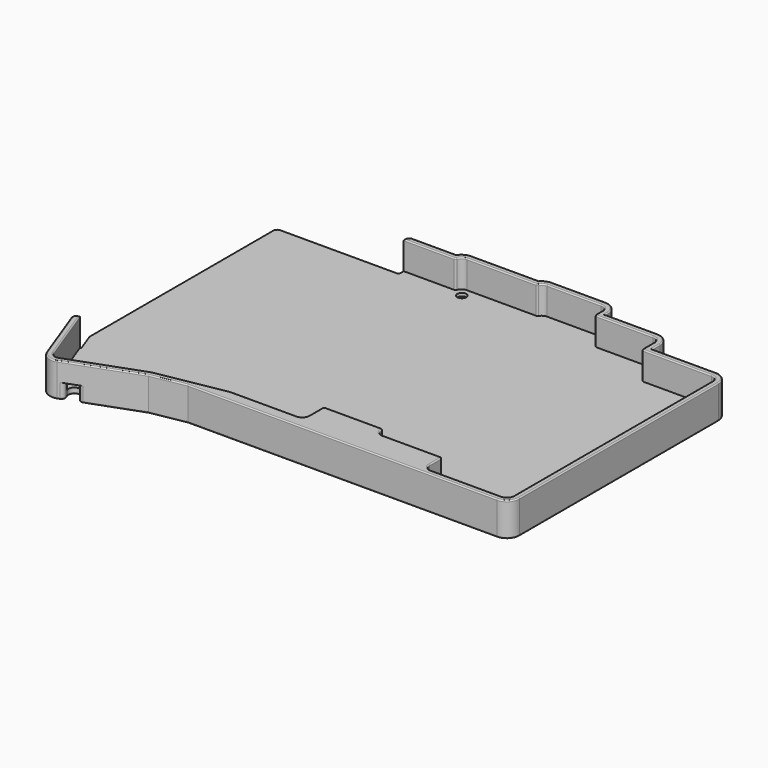
from build123d import *

# Parameters (mm, degrees)
PAD010_DEPTH         = 7.3
PAD010_DEPTH_BACK    = 1.5
POCKET008_DEPTH      = 10
SKETCH024_W          = 7.516364
SKETCH024_H          = 7.12941
POCKET009_DEPTH      = 10
POCKET009_DEPTH_BACK = 10
SKETCH025_R          = 1.2
SKETCH025_R_2        = 1.1
POCKET010_DEPTH      = 20
FILLET_R             = 1
FILLET002_R          = 0.499
SKETCH027_R          = 2.5
POCKET012_DEPTH      = 5
POCKET019_DEPTH      = 5
POCKET019_DEPTH_BACK = 2.4
FILLET009_R          = 1
FILLET003_R          = 0.299


with BuildPart() as part:
    # Sketch021 → Pad010 (new body, two sides)
    with BuildSketch(Plane.XY.offset(-5.1)) as pad010_sk:
        with BuildLine():
            Line((78.000001, -76.1), (15.615872, -76.1))
            Line((6.65976, -77.728932), (15.615872, -76.1))
            Line((-11.88183, -84.480745), (6.65976, -77.728932))
            ThreePointArc((-16.10595, -82.524941), (-14.397471, -84.374493), (-11.88183, -84.480745))
            Line((-21.988183, -66.62453), (-16.10595, -82.524941))
            Line((-20.3, -66), (-21.988183, -66.62453))
            Line((-22.1, -61.054541), (-20.3, -66))
            Line((-22.1, 0), (-22.1, -61.054541))
            Line((8.1, 0), (-22.1, 0))
            Line((8.1, 3.1), (8.1, 0))
            Line((22.434137, 3.1), (8.1, 3.1))
            ThreePointArc((25.199999, 4.6), (23.626787, 4.200862), (22.434137, 3.1))
            Line((42.840325, 4.6), (25.199999, 4.6))
            ThreePointArc((45.3, 5.7), (43.952781, 5.412474), (42.840325, 4.6))
            Line((59.400001, 5.7), (45.3, 5.7))
            ThreePointArc((62.7, 2.400001), (61.733452, 4.733452), (59.400001, 5.7))
            Line((62.7, 1.4), (62.7, 2.400001))
            Line((76.400001, 1.4), (62.7, 1.4))
            ThreePointArc((79.7, -1.899999), (78.733452, 0.433452), (76.400001, 1.4))
            Line((79.7, -4.5), (79.7, -1.899999))
            Line((96.400001, -4.5), (79.7, -4.5))
            ThreePointArc((99.7, -7.799999), (98.733452, -5.466548), (96.400001, -4.5))
            Line((99.7, -59.8), (99.7, -7.799999))
            Line((99.7, -72.800001), (99.7, -59.8))
            ThreePointArc((96.400001, -76.1), (98.733452, -75.133452), (99.7, -72.800001))
            Line((78.000001, -76.1), (96.400001, -76.1))
        make_face()
    extrude(amount=PAD010_DEPTH)
    extrude(pad010_sk.sketch, amount=-PAD010_DEPTH_BACK)

    # Sketch023 → Pocket008 (cut)
    with BuildSketch(Plane.XY.offset(-5.1)):
        with BuildLine():
            Line((-22.1, 0.3), (5, 0.3))
            Line((9.6, 0.3), (5, 0.3))
            Line((9.6, 1.3), (9.6, 0.3))
            ThreePointArc((9.9, 1.6), (9.687868, 1.512132), (9.6, 1.3))
            Line((23.425176, 1.6), (9.9, 1.6))
            ThreePointArc((25.2, 3.1), (24.038105, 2.674773), (23.425176, 1.6))
            Line((43.641688, 3.1), (25.2, 3.1))
            ThreePointArc((45.3, 4.2), (44.305013, 3.9), (43.641688, 3.1))
            Line((59.4, 4.2), (45.3, 4.2))
            ThreePointArc((61.2, 2.4), (60.672792, 3.672792), (59.4, 4.2))
            Line((61.2, -0.1), (61.2, 2.4))
            Line((76.4, -0.1), (61.2, -0.1))
            ThreePointArc((78.2, -1.9), (77.672792, -0.627208), (76.4, -0.1))
            Line((78.2, -6), (78.2, -1.9))
            Line((96.4, -6), (78.2, -6))
            ThreePointArc((98.2, -7.8), (97.672792, -6.527208), (96.4, -6))
            Line((98.2, -59.8), (98.2, -7.8))
            Line((98.2, -72.8), (98.2, -59.8))
            ThreePointArc((96.4, -74.6), (97.672792, -74.072792), (98.2, -72.8))
            Line((78, -74.6), (96.4, -74.6))
            ThreePointArc((76.2, -72.8), (76.727208, -74.072792), (78, -74.6))
            Line((76.2, -68.7), (76.2, -72.8))
            Line((68.6, -68.7), (76.2, -68.7))
            Line((67.1, -68.7), (68.6, -68.7))
            Line((60.7, -68.7), (67.1, -68.7))
            ThreePointArc((58.9, -66.9), (59.427208, -68.172792), (60.7, -68.7))
            Line((58.9, -66.4), (58.9, -66.9))
            Line((51.15, -66.4), (58.9, -66.4))
            Line((49.65, -66.4), (51.15, -66.4))
            Line((43.4, -66.4), (49.65, -66.4))
            Line((43.4, -71.2), (43.4, -66.4))
            ThreePointArc((41.6, -73), (42.872792, -72.472792), (43.4, -71.2))
            Line((41.400037, -73), (41.6, -73))
            Line((24.254102, -73.004276), (41.400037, -73))
            Line((6.266115, -76.275919), (24.254102, -73.004276))
            Line((-12.395075, -83.071263), (6.266115, -76.275919))
            ThreePointArc((-14.699153, -82.00444), (-13.767262, -83.013318), (-12.395075, -83.071263))
            Line((-22.381364, -61.238463), (-14.699153, -82.00444))
            ThreePointArc((-22.4, -61.134375), (-22.395304, -61.187247), (-22.381364, -61.238463))
            Line((-22.4, 0), (-22.4, -61.134375))
            ThreePointArc((-22.1, 0.3), (-22.312132, 0.212132), (-22.4, 0))
        make_face()
    extrude(amount=POCKET008_DEPTH, mode=Mode.SUBTRACT)

    # Sketch024 → Pocket009 (cut, two sides)
    with BuildSketch(Plane.XY.offset(-5.1)) as pocket009_sk:
        with Locations((6.141818, 3.564705)):
            Rectangle(SKETCH024_W, SKETCH024_H)
    extrude(amount=POCKET009_DEPTH, mode=Mode.SUBTRACT)
    extrude(pocket009_sk.sketch, amount=-POCKET009_DEPTH_BACK, mode=Mode.SUBTRACT)

    # Sketch025 → Pocket010 (cut)
    with BuildSketch(Plane.XY):
        with Locations((25.9, 0.6)):
            Circle(SKETCH025_R)
        with Locations((25.9, 0.6)):
            Circle(SKETCH025_R)
        with Locations((95.6, -23.3)):
            Circle(SKETCH025_R_2)
        with Locations((95.6, -57.3)):
            Circle(SKETCH025_R_2)
        with Locations((-14, -73.8)):
            Circle(SKETCH025_R)
    extrude(amount=-POCKET010_DEPTH, mode=Mode.SUBTRACT)

    # Fillet
    fillet_edges = [part.edges().sort_by_distance(p)[0] for p in [
        (9.9, 3.1, -2.2),
        (-22.1, 0, -5.85),
        (-21.988183, -66.62453, -2.2),
    ]]
    fillet(fillet_edges, radius=FILLET_R)

    # Fillet002
    fillet002_edges = [part.edges().sort_by_distance(p)[0] for p in [
        (23.425176, 1.6, -1.45),
        (43.641688, 3.1, -1.45),
        (61.2, -0.1, -1.45),
        (78.2, -6, -1.45),
        (58.9, -66.4, -1.45),
        (76.2, -68.7, -1.45),
        (43.4, -66.4, -1.45),
        (9.9, 0, -5.85),
    ]]
    fillet(fillet002_edges, radius=FILLET002_R)

    # Sketch027 → Pocket012 (cut)
    with BuildSketch(Plane.XY.offset(-5.9)):
        with Locations((95.6, -23.3)):
            Circle(SKETCH027_R)
        with Locations((95.6, -57.3)):
            Circle(SKETCH027_R)
        with Locations((-14, -73.8)):
            Circle(SKETCH027_R)
        with Locations((25.9, 0.6)):
            Circle(SKETCH027_R)
    extrude(amount=-POCKET012_DEPTH, mode=Mode.SUBTRACT)

    # Sketch037 → Pocket019 (cut, two sides)
    with BuildSketch(Plane.XY.offset(-5.1)) as pocket019_sk:
        with BuildLine():
            Line((-7.5, -83), (-10.319078, -84.02606))
            Line((-10.319078, -84.02606), (-10.968916, -82.240644))
            ThreePointArc((-8.149838, -81.214584), (-10.072407, -80.318075), (-10.968916, -82.240644))
            Line((-8.149838, -81.214584), (-7.5, -83))
        make_face()
    extrude(amount=-POCKET019_DEPTH, mode=Mode.SUBTRACT)
    extrude(pocket019_sk.sketch, amount=POCKET019_DEPTH_BACK, mode=Mode.SUBTRACT)

    # Fillet009
    fillet009_edges = [part.edges().sort_by_distance(p)[0] for p in [
        (-10.355838, -83.925064, -4.65),
        (-7.536917, -82.89857, -4.65),
    ]]
    fillet(fillet009_edges, radius=FILLET009_R)

    # Fillet003
    fillet003_edges = [part.edges().sort_by_distance(p)[0] for p in [
        (0.031313, -80.142643, -6.6),
        (-7.361846, -82.523053, -6.6),
        (11.137816, -76.914466, -6.6),
        (-8.014414, -81.586659, -6.6),
        (56.007936, -76.1, -6.6),
        (-10.072407, -80.318075, -6.6),
        (98.733452, -75.133452, -6.6),
        (-10.833361, -82.61308, -6.6),
        (99.7, -40.3, -6.6),
        (-10.731158, -83.750085, -6.6),
        (98.733452, -5.466548, -6.6),
        (-11.588581, -84.373961, -6.6),
        (88.05, -4.5, -6.6),
        (-14.397471, -84.374493, -6.6),
        (79.7, -3.2, -6.6),
        (-18.873586, -75.043675, -6.6),
        (78.733452, 0.433452, -6.6),
        (-21.611862, -66.797606, -6.6),
        (69.55, 1.4, -6.6),
        (-20.675152, -66.138784, -6.6),
        (62.7, 1.9, -6.6),
        (-21.2, -63.527271, -6.6),
        (61.733452, 4.733452, -6.6),
        (-22.1, -31.027271, -6.6),
        (52.35, 5.7, -6.6),
        (-21.807107, -0.292893, -6.6),
        (43.952781, 5.412474, -6.6),
        (-5.8495, 0, -6.6),
        (34.020162, 4.6, -6.6),
        (9.753846, 0.146154, -6.6),
        (23.626787, 4.200862, -6.6),
        (9.9, 1.2995, -6.6),
        (16.667068, 3.1, -6.6),
        (10.192893, 2.807107, -6.6),
        (-16.5, -73.8, -6.6),
        (93.1, -57.3, -6.6),
        (23.4, 0.6, -6.6),
        (93.1, -23.3, -6.6),
        (43.4, -69.0495, 2.2),
        (43.546154, -66.546154, 2.2),
        (42.872792, -72.472792, 2.2),
        (51.15, -66.4, 2.2),
        (41.500019, -73, 2.2),
        (58.753846, -66.546154, 2.2),
        (32.82707, -73.002138, 2.2),
        (58.9, -66.8995, 2.2),
        (15.260108, -74.640098, 2.2),
        (59.427208, -68.172792, 2.2),
        (-3.06448, -79.673591, 2.2),
        (68.2005, -68.7, 2.2),
        (-13.767262, -83.013318, 2.2),
        (76.053846, -68.846154, 2.2),
        (-17.640258, -74.054264, 2.2),
        (76.2, -70.9995, 2.2),
        (-20.815834, -66.190829, 2.2),
        (76.727208, -74.072792, 2.2),
        (-21.611862, -66.797606, 2.2),
        (87.2, -74.6, 2.2),
        (-18.873586, -75.043675, 2.2),
        (97.672792, -74.072792, 2.2),
        (-14.397471, -84.374493, 2.2),
        (98.2, -40.3, 2.2),
        (-2.611035, -81.104839, 2.2),
        (97.672792, -6.527208, 2.2),
        (11.137816, -76.914466, 2.2),
        (87.5495, -6, 2.2),
        (56.007936, -76.1, 2.2),
        (78.346154, -5.853846, 2.2),
        (98.733452, -75.133452, 2.2),
        (78.2, -3.7005, 2.2),
        (99.7, -40.3, 2.2),
        (77.672792, -0.627208, 2.2),
        (98.733452, -5.466548, 2.2),
        (69.0495, -0.1, 2.2),
        (88.05, -4.5, 2.2),
        (61.346154, 0.046154, 2.2),
        (79.7, -3.2, 2.2),
        (61.2, 1.3995, 2.2),
        (78.733452, 0.433452, 2.2),
        (60.672792, 3.672792, 2.2),
        (69.55, 1.4, 2.2),
        (52.35, 4.2, 2.2),
        (62.7, 1.9, 2.2),
        (44.419591, 3.969994, 2.2),
        (61.733452, 4.733452, 2.2),
        (43.582488, 3.163763, 2.2),
        (52.35, 5.7, 2.2),
        (34.269209, 3.1, 2.2),
        (43.952781, 5.412474, 2.2),
        (24.171904, 2.777504, 2.2),
        (34.020162, 4.6, 2.2),
        (23.329321, 1.689403, 2.2),
        (23.626787, 4.200862, 2.2),
        (16.472155, 1.6, 2.2),
        (16.667068, 3.1, 2.2),
        (9.9, 1.85, 2.2),
        (10.192893, 2.807107, 2.2),
    ]]
    fillet(fillet003_edges, radius=FILLET003_R)


solid = part.part
